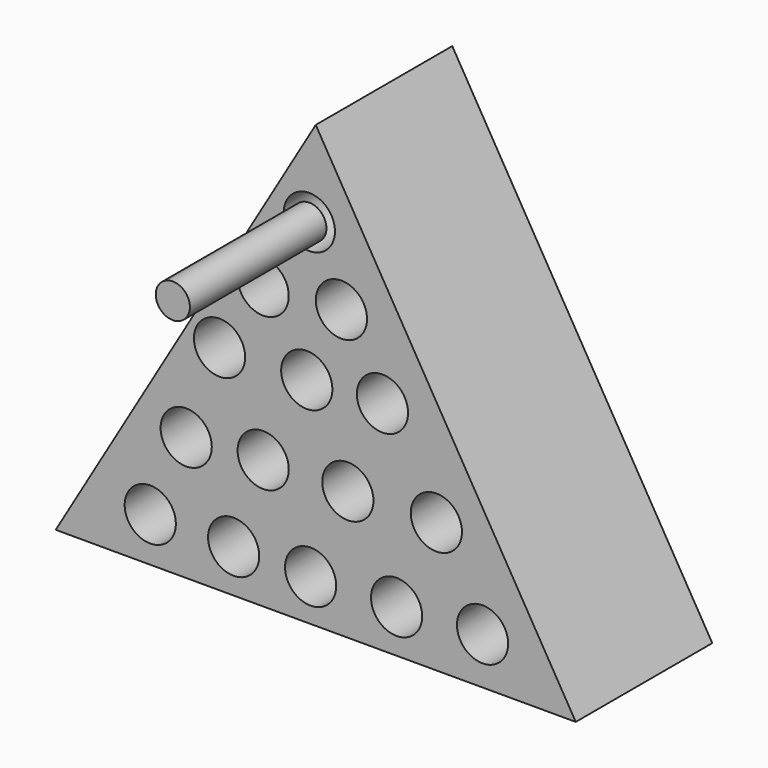
from build123d import *

# Parameters (mm, degrees)
F1_DEPTH  = 25.4
F2_R      = 3.81
F3_DEPTH  = 12.7
F4_R      = 3.81
F14_DEPTH = 25.4
F5_R      = 3.81
F16_DEPTH = 19.05
F6_R      = 3.81
F17_DEPTH = 19.05
F8_R      = 3.81
F18_DEPTH = 19.05
F7_R      = 3.81
F19_DEPTH = 19.05
F12_R     = 3.81
F20_DEPTH = 19.05
F13_R     = 3.81
F21_DEPTH = 19.05
F11_R     = 3.81
F22_DEPTH = 19.05
F9_R      = 3.81
F23_DEPTH = 21.59
F15_R     = 3.81
F24_DEPTH = 19.05
F10_R     = 3.81
F25_DEPTH = 19.05
F26_R     = 2.54
F27_DEPTH = 25.4


with BuildPart() as f1:
    # F0 (on Front) → F1 (new body)
    with BuildSketch(Plane.XZ):
        Polygon((-77.400591, 0), (0, 0), (-38.700295, 65.640895), align=None)
    extrude(amount=F1_DEPTH)

    # F2 (on face) → F3 (cut)
    with BuildSketch(Plane.XZ.offset(25.4)):
        with Locations((-63.328899, 6.587936)):
            Circle(F2_R)
        with Locations((-50.916847, 6.396981)):
            Circle(F2_R)
        with Locations((-39.459564, 6.206026)):
            Circle(F2_R)
        with Locations((-26.665604, 6.396981)):
            Circle(F2_R)
        with Locations((-13.871642, 6.969845)):
            Circle(F2_R)
    extrude(amount=-F3_DEPTH, mode=Mode.SUBTRACT)

    # F4 (on face) → F14 (cut)
    with BuildSketch(Plane.XZ.offset(25.4)):
        with Locations((-57.60026, 18.999988)):
            Circle(F4_R)
    extrude(amount=F14_DEPTH, mode=Mode.SUBTRACT)

    # F5 (on face) → F16 (cut)
    with BuildSketch(Plane.XZ.offset(25.4)):
        with Locations((-46.524886, 19.190943)):
            Circle(F5_R)
    extrude(amount=-F16_DEPTH, mode=Mode.SUBTRACT)

    # F6 (on face) → F17 (cut)
    with BuildSketch(Plane.XZ.offset(25.4)):
        with Locations((-33.921879, 19.190943)):
            Circle(F6_R)
    extrude(amount=-F17_DEPTH, mode=Mode.SUBTRACT)

    # F8 (on face) → F18 (cut)
    with BuildSketch(Plane.XZ.offset(25.4)):
        with Locations((-40.032428, 31.793948)):
            Circle(F8_R)
    extrude(amount=-F18_DEPTH, mode=Mode.SUBTRACT)

    # F7 (on face) → F19 (cut)
    with BuildSketch(Plane.XZ.offset(25.4)):
        with Locations((-20.746009, 19.381898)):
            Circle(F7_R)
    extrude(amount=-F19_DEPTH, mode=Mode.SUBTRACT)

    # F12 (on face) → F20 (cut)
    with BuildSketch(Plane.XZ.offset(25.4)):
        with Locations((-34.876652, 42.678364)):
            Circle(F12_R)
    extrude(amount=-F20_DEPTH, mode=Mode.SUBTRACT)

    # F13 (on face) → F21 (cut)
    with BuildSketch(Plane.XZ.offset(25.4)):
        with Locations((-39.650518, 52.608009)):
            Circle(F13_R)
    extrude(amount=-F21_DEPTH, mode=Mode.SUBTRACT)

    # F11 (on face) → F22 (cut)
    with BuildSketch(Plane.XZ.offset(25.4)):
        with Locations((-46.524886, 41.914549)):
            Circle(F11_R)
    extrude(amount=-F22_DEPTH, mode=Mode.SUBTRACT)

    # F9 (on face) → F23 (cut)
    with BuildSketch(Plane.XZ.offset(25.4)):
        with Locations((-53.017348, 31.793948)):
            Circle(F9_R)
    extrude(amount=-F23_DEPTH, mode=Mode.SUBTRACT)

    # F15 (on face) → F24 (cut)
    with BuildSketch(Plane.XZ.offset(25.4)):
        with Locations((-57.982165, 18.427124)):
            Circle(F15_R)
    extrude(amount=-F24_DEPTH, mode=Mode.SUBTRACT)

    # F10 (on face) → F25 (cut)
    with BuildSketch(Plane.XZ.offset(25.4)):
        with Locations((-28.766105, 32.366816)):
            Circle(F10_R)
    extrude(amount=-F25_DEPTH, mode=Mode.SUBTRACT)


with BuildPart() as f27:
    # F26 (on face) → F27 (new body)
    with BuildSketch(Plane.XZ.offset(25.4)):
        with Locations((-39.650518, 52.608009)):
            Circle(F26_R)
    extrude(amount=F27_DEPTH)


solid = Compound([f1.part, f27.part])
